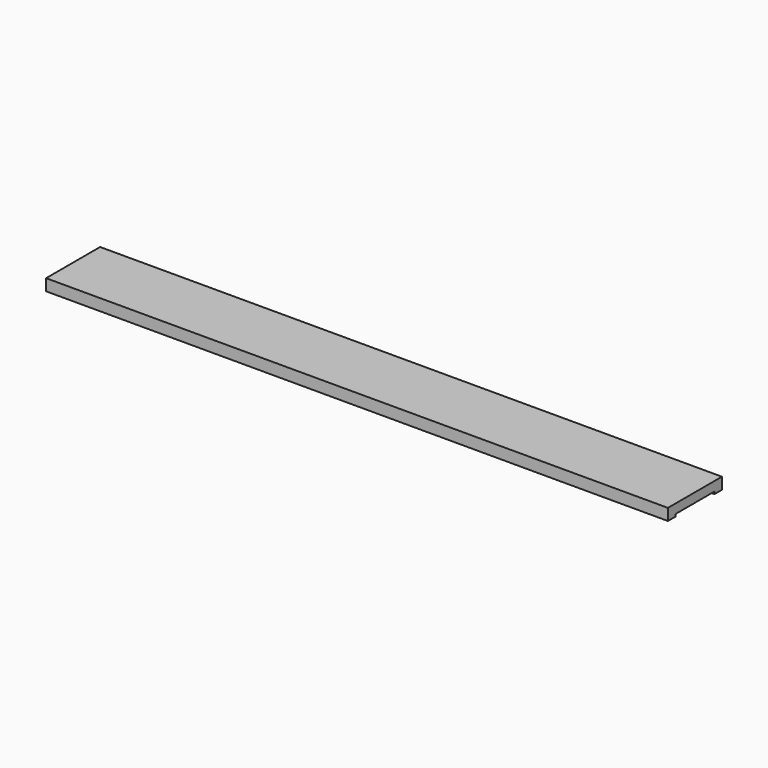
from build123d import *

# Parameters (mm, degrees)
F0_W     = 161.15
F0_H     = 17.5
F1_DEPTH = 2.4
F2_W     = 161.15
F2_H     = 2.4
F3_DEPTH = 0.6
F4_W     = 161.15
F4_H     = 2.4
F5_DEPTH = 0.6
F6_W     = 2.4
F6_H     = 12.7
F7_DEPTH = 0.6


with BuildPart() as f1:
    # F0 (on Top) → F1 (new body)
    with BuildSketch(Plane.XY):
        with Locations((74.009652, 20.676134)):
            Rectangle(F0_W, F0_H)
    extrude(amount=F1_DEPTH)

    # F2 (on face) → F3 (join)
    with BuildSketch(Plane(origin=(0, 0, 0), x_dir=(1, 0, 0), z_dir=(0, 0, -1))):
        with Locations((74.009652, -28.226134)):
            Rectangle(F2_W, F2_H)
    extrude(amount=F3_DEPTH)

    # F4 (on face) → F5 (join)
    with BuildSketch(Plane(origin=(0, 0, 0), x_dir=(1, 0, 0), z_dir=(0, 0, -1))):
        with Locations((74.009652, -13.126134)):
            Rectangle(F4_W, F4_H)
    extrude(amount=F5_DEPTH)

    # F6 (on face) → F7 (join)
    with BuildSketch(Plane(origin=(0, 0, 0), x_dir=(1, 0, 0), z_dir=(0, 0, -1))):
        with Locations((-5.365348, -20.676134)):
            Rectangle(F6_W, F6_H)
    extrude(amount=F7_DEPTH)


solid = f1.part
